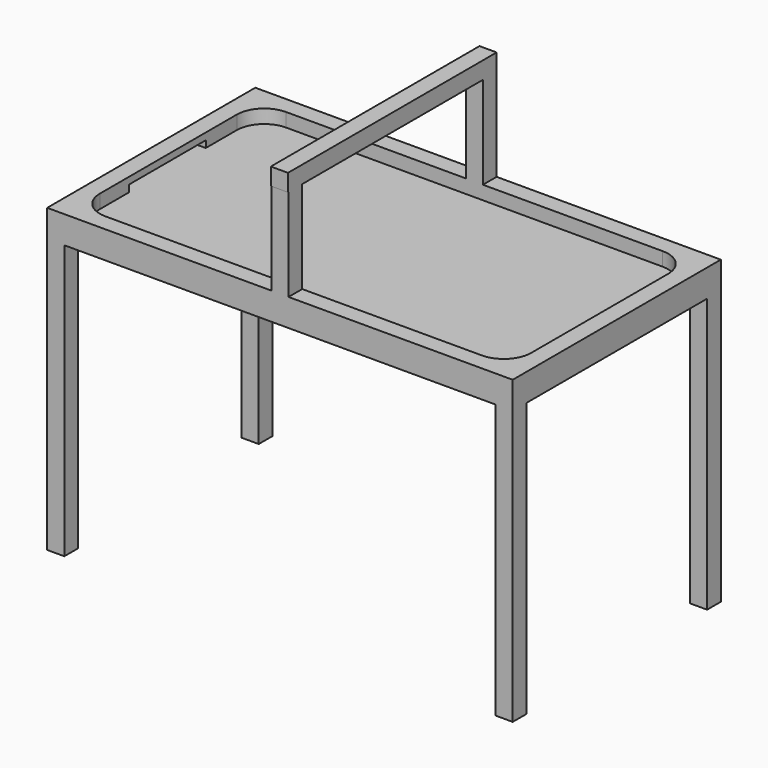
from build123d import *

# Parameters (mm, degrees)
F1_DEPTH  = 6.35
F0_W      = 7.9375
F0_H      = 7.9375
F2_DEPTH  = 12.7
F3_DEPTH  = 127
F5_DEPTH  = 50.8
F6_W      = 7.9502
F6_H      = 7.9502
F7_DEPTH  = 113.03
F8_W      = 44.45
F8_H      = 3.175
F9_DEPTH  = 6.35
F10_W     = 50.8
F10_H     = 3.175
F11_DEPTH = 3.175


with BuildPart() as f1:
    # F0 (on Top) → F1 (new body)
    with BuildSketch(Plane.XY):
        with BuildLine():
            ThreePointArc((-100.0125, -39.6875), (-96.292756, -48.667756), (-87.3125, -52.3875))
            Line((-87.3125, -52.3875), (87.3125, -52.3875))
            ThreePointArc((87.3125, -52.3875), (96.292756, -48.667756), (100.0125, -39.6875))
            Line((100.0125, -39.6875), (100.0125, 39.6875))
            ThreePointArc((100.0125, 39.6875), (96.292756, 48.667756), (87.3125, 52.3875))
            Line((87.3125, 52.3875), (-87.3125, 52.3875))
            ThreePointArc((-87.3125, 52.3875), (-96.292756, 48.667756), (-100.0125, 39.6875))
            Line((-100.0125, 39.6875), (-100.0125, -39.6875))
        make_face()
    extrude(amount=F1_DEPTH)

    # F0 (on Top) → F2 (join)
    with BuildSketch(Plane.XY):
        with BuildLine():
            Line((-100.0125, -39.6875), (-100.0125, -52.3875))
            Line((-100.0125, -52.3875), (-87.3125, -52.3875))
            ThreePointArc((-87.3125, -52.3875), (-96.292756, -48.667756), (-100.0125, -39.6875))
        make_face()
        Polygon((-107.95, 52.3875), (-107.95, -52.3875), (-100.0125, -52.3875), (-100.0125, -39.6875), (-100.0125, 39.6875), (-100.0125, 52.3875), align=None)
        Polygon((-100.0125, -52.3875), (-100.0125, -60.325), (100.0125, -60.325), (100.0125, -52.3875), (87.3125, -52.3875), (-87.3125, -52.3875), align=None)
        Polygon((-100.0125, 60.325), (-100.0125, 52.3875), (-87.3125, 52.3875), (87.3125, 52.3875), (100.0125, 52.3875), (100.0125, 60.325), align=None)
        with BuildLine():
            Line((-87.3125, 52.3875), (-100.0125, 52.3875))
            Line((-100.0125, 52.3875), (-100.0125, 39.6875))
            ThreePointArc((-100.0125, 39.6875), (-96.292756, 48.667756), (-87.3125, 52.3875))
        make_face()
        with BuildLine():
            ThreePointArc((87.3125, 52.3875), (96.292756, 48.667756), (100.0125, 39.6875))
            Line((100.0125, 39.6875), (100.0125, 52.3875))
            Line((100.0125, 52.3875), (87.3125, 52.3875))
        make_face()
        Polygon((100.0125, -39.6875), (100.0125, -52.3875), (107.95, -52.3875), (107.95, 52.3875), (100.0125, 52.3875), (100.0125, 39.6875), align=None)
        with BuildLine():
            Line((87.3125, -52.3875), (100.0125, -52.3875))
            Line((100.0125, -52.3875), (100.0125, -39.6875))
            ThreePointArc((100.0125, -39.6875), (96.292756, -48.667756), (87.3125, -52.3875))
        make_face()
        with Locations((103.98125, -56.35625)):
            Rectangle(F0_W, F0_H)
        with Locations((103.98125, 56.35625)):
            Rectangle(F0_W, F0_H)
        with Locations((-103.98125, 56.35625)):
            Rectangle(F0_W, F0_H)
        with Locations((-103.98125, -56.35625)):
            Rectangle(F0_W, F0_H)
    extrude(amount=F2_DEPTH)

    # F0 (on Top) → F3 (join)
    with BuildSketch(Plane.XY):
        with Locations((-103.98125, -56.35625)):
            Rectangle(F0_W, F0_H)
        with Locations((-103.98125, 56.35625)):
            Rectangle(F0_W, F0_H)
        with Locations((103.98125, 56.35625)):
            Rectangle(F0_W, F0_H)
        with Locations((103.98125, -56.35625)):
            Rectangle(F0_W, F0_H)
    extrude(amount=-F3_DEPTH)

    # F4 (on face) → F5 (join)
    with BuildSketch(Plane.XY.offset(12.7)):
        with BuildLine():
            ThreePointArc((0, 60.325), (-3.96875, 56.35625), (0, 52.3875))
            Line((0, 52.3875), (0, 60.325))
        make_face()
        with BuildLine():
            ThreePointArc((0, -52.3875), (-3.96875, -56.35625), (0, -60.325))
            Line((0, -60.325), (0, -52.3875))
        make_face()
        with BuildLine():
            Line((0, -52.3875), (0, -60.325))
            ThreePointArc((0, -60.325), (2.80633, -59.16258), (3.96875, -56.35625))
            ThreePointArc((3.96875, -56.35625), (2.80633, -53.54992), (0, -52.3875))
        make_face()
        with BuildLine():
            Line((-3.9751, -60.325), (0, -60.325))
            ThreePointArc((0, -60.325), (-3.96875, -56.35625), (0, -52.3875))
            Line((0, -52.3875), (-3.9751, -52.3875))
            Line((-3.9751, -52.3875), (-3.9751, -60.325))
        make_face()
        with BuildLine():
            ThreePointArc((3.96875, -56.35625), (2.80633, -59.16258), (0, -60.325))
            Line((0, -60.325), (3.9751, -60.325))
            Line((3.9751, -60.325), (3.9751, -52.3875))
            Line((3.9751, -52.3875), (0, -52.3875))
            ThreePointArc((0, -52.3875), (2.80633, -53.54992), (3.96875, -56.35625))
        make_face()
        with BuildLine():
            ThreePointArc((3.96875, 56.35625), (2.80633, 53.54992), (0, 52.3875))
            Line((0, 52.3875), (3.9751, 52.3875))
            Line((3.9751, 52.3875), (3.9751, 60.325))
            Line((3.9751, 60.325), (0, 60.325))
            ThreePointArc((0, 60.325), (2.80633, 59.16258), (3.96875, 56.35625))
        make_face()
        with BuildLine():
            Line((0, 60.325), (0, 52.3875))
            ThreePointArc((0, 52.3875), (2.80633, 53.54992), (3.96875, 56.35625))
            ThreePointArc((3.96875, 56.35625), (2.80633, 59.16258), (0, 60.325))
        make_face()
        with BuildLine():
            Line((-3.9751, 52.3875), (0, 52.3875))
            ThreePointArc((0, 52.3875), (-3.96875, 56.35625), (0, 60.325))
            Line((0, 60.325), (-3.9751, 60.325))
            Line((-3.9751, 60.325), (-3.9751, 52.3875))
        make_face()
    extrude(amount=F5_DEPTH)

    # F6 (on face) → F7 (join)
    with BuildSketch(Plane.XZ.offset(-52.3875)):
        with Locations((0, 59.5249)):
            Rectangle(F6_W, F6_H)
    extrude(amount=F7_DEPTH)

    # F8 (on face) → F9 (cut)
    with BuildSketch(Plane.YZ.offset(-100.0125)):
        with Locations((-0.538783, 7.9375)):
            Rectangle(F8_W, F8_H)
    extrude(amount=-F9_DEPTH, mode=Mode.SUBTRACT)

    # F10 (on face) → F11 (cut)
    with BuildSketch(Plane(origin=(100.0125, 0, 0), x_dir=(0, -1, 0), z_dir=(-1, 0, 0))):
        with Locations((0.075357, 7.9375)):
            Rectangle(F10_W, F10_H)
    extrude(amount=-F11_DEPTH, mode=Mode.SUBTRACT)


solid = f1.part
